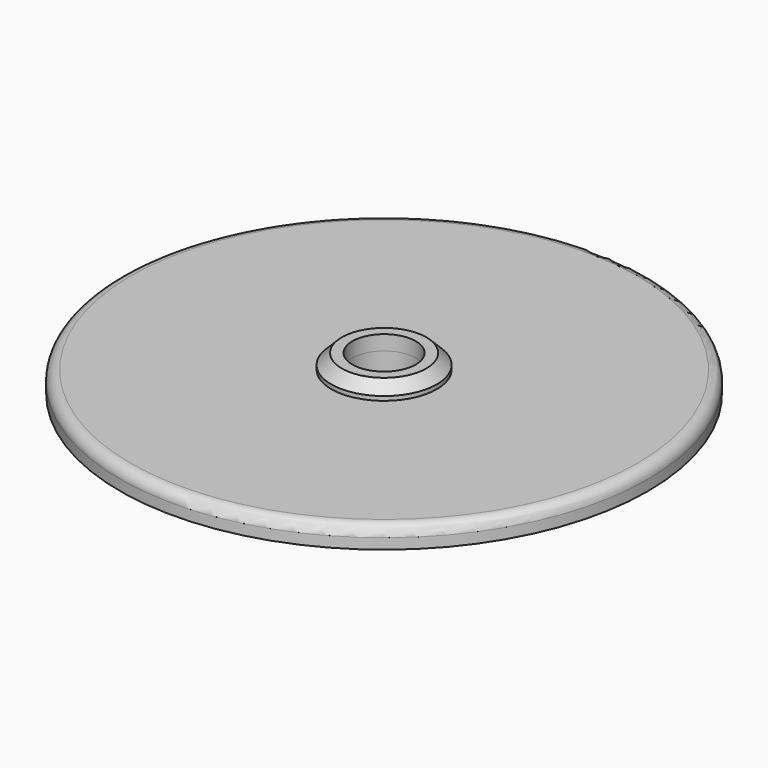
from build123d import *

# Parameters (mm, degrees)
SKETCH_R        = 25
PAD_DEPTH       = 2
SKETCH001_R     = 3
POCKET_DEPTH    = 5
SKETCH002_R     = 5
PAD001_DEPTH    = 1.4
PAD001_FACE6_R  = 3
POCKET001_DEPTH = 5
FILLET_R        = 1
CHAMFER_SIZE    = 1


with BuildPart() as part:
    # Sketch → Pad (new body)
    with BuildSketch(Plane.XY):
        Circle(SKETCH_R)
    extrude(amount=PAD_DEPTH)

    # Sketch001 (on Face3 of Pad) → Pocket (cut)
    with BuildSketch(Plane.XY.offset(2)):
        Circle(SKETCH001_R)
    extrude(amount=-POCKET_DEPTH, mode=Mode.SUBTRACT)

    # Sketch002 (on Face3 of Pocket) → Pad001 (join)
    with BuildSketch(Plane.XY.offset(2)):
        Circle(SKETCH002_R)
    extrude(amount=PAD001_DEPTH)

    # Pad001 Face6 → Pocket001 (cut)
    with BuildSketch(Plane(origin=(0, 0, 2), x_dir=(0, -1, 0), z_dir=(0, 0, -1))):
        Circle(PAD001_FACE6_R)
    extrude(amount=-POCKET001_DEPTH, mode=Mode.SUBTRACT)

    # Fillet
    fillet_edges = [part.edges().sort_by_distance(p)[0] for p in [
        (-25, 0, 2),
    ]]
    fillet(fillet_edges, radius=FILLET_R)

    # Chamfer
    chamfer_edges = [part.edges().sort_by_distance(p)[0] for p in [
        (-5, 0, 3.4),
    ]]
    chamfer(chamfer_edges, length=CHAMFER_SIZE)


solid = part.part
